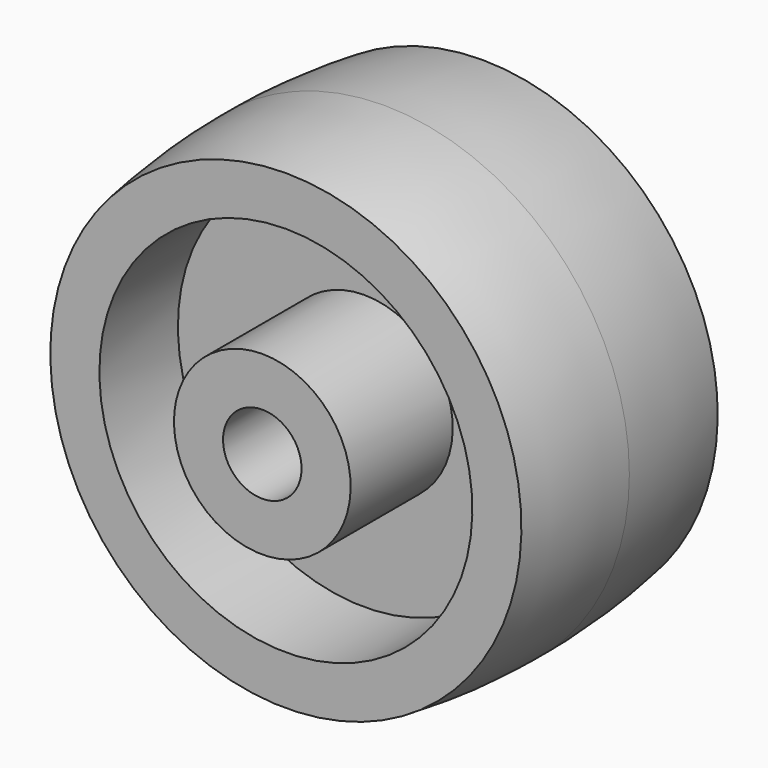
from build123d import *


with BuildPart() as part:
    # Sketch → Revolution (revolve)
    with BuildSketch(Plane.YZ):
        with BuildLine():
            ThreePointArc((6.25, 12), (3.134984, 12.374801), (0, 12.5))
            ThreePointArc((0, 12.5), (-3.134984, 12.374805), (-6.25, 12.000009))
            Line((-6.25, 12.000009), (-6.25, 9.5))
            Line((-6.25, 9.5), (-1.25, 9.5))
            Line((-1.25, 9.5), (-1.25, 4.5))
            Line((-1.25, 4.5), (-7.75, 4.5))
            Line((-7.75, 4.5), (-7.75, 2))
            Line((0, 2), (-7.75, 2))
            Line((0, 2), (7.75, 2))
            Line((7.75, 4.5), (7.75, 2))
            Line((1.25, 4.5), (7.75, 4.5))
            Line((1.25, 9.5), (1.25, 4.5))
            Line((6.25, 9.5), (1.25, 9.5))
            Line((6.25, 12), (6.25, 9.5))
        make_face()
    revolve(axis=Axis((0, 0, 0), (0, 1, 0)))


solid = part.part
